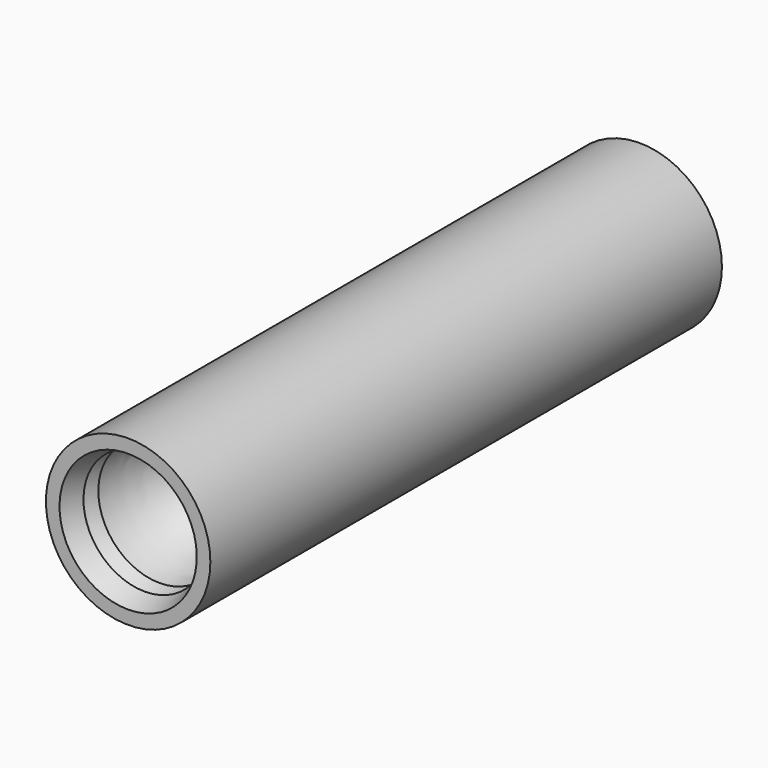
from build123d import *

# Parameters (mm, degrees)
F0_R     = 9
F1_DEPTH = 70


with BuildPart() as f1:
    # F0 (on Front) → F1 (new body)
    with BuildSketch(Plane.XZ):
        Circle(F0_R)
    extrude(amount=F1_DEPTH)

    # F2 (on Right) → F3 (revolve, cut)
    with BuildSketch(Plane.YZ):
        with BuildLine():
            Line((-65.6930357218, -6.7071020603), (-65.6930357218, -7.2155290418))
            add(Edge.make_bspline(
                [(-65.6930357218, -7.2155290418), (-54.8685416579, -5.6061186379), (-54.8685416579, 0)],
                knots=[5.0035671981, 5.0035671981, 5.0035671981, 6.2831853072, 6.2831853072, 6.2831853072], degree=2, weights=[1, 0.802209775, 1]))
            Line((-54.8685416579, 0), (-65.6930357218, 0))
            Line((-65.6930357218, 0), (-67.727163434, 0))
            Line((-67.727163434, 0), (-70.0518861413, 0))
            Line((-70.0518861413, 0), (-70.0518861413, -7.5326042516))
            Line((-70.0518861413, -7.5326042516), (-67.727163434, -6.7071020603))
            Line((-67.727163434, -6.7071020603), (-67.727163434, -7.443788395))
            Line((-67.727163434, -7.443788395), (-65.6930357218, -6.7071020603))
        make_face()
    revolve(axis=Axis((0, -60.2807886899, 0), (0, 1, 0)), mode=Mode.SUBTRACT)


solid = f1.part
